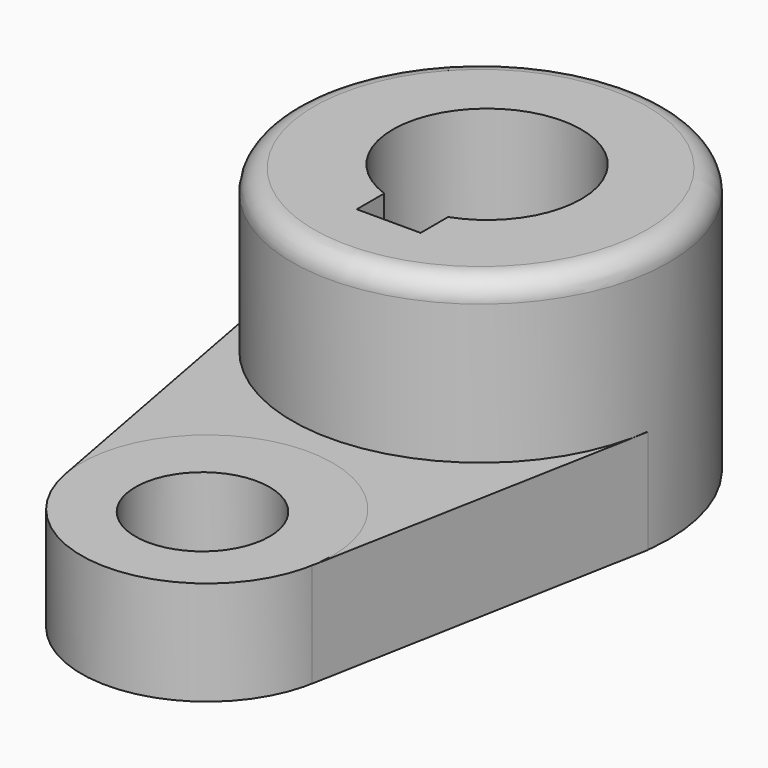
from build123d import *

# Parameters (mm, degrees)
F3_R      = 28.575
F4_DEPTH  = 40.2336
F2_R      = 19.05
F5_DEPTH  = 15.7734
F1_R      = 14.2875
F6_DEPTH  = 63.754
F0_R      = 10.16
F8_DEPTH  = 111.506
F9_R      = 3.302
F11_DEPTH = 15.7734
F12_DEPTH = 175.514


with BuildPart() as f4:
    # F3 (on Top) → F4 (new body)
    with BuildSketch(Plane.XY):
        with Locations((0, 26.3259668327)):
            Circle(F3_R)
    extrude(amount=F4_DEPTH)

    # F1 (on Top) → F6 (cut)
    with BuildSketch(Plane.XY):
        with Locations((0, 27.5547930962)):
            Circle(F1_R)
    extrude(amount=F6_DEPTH, mode=Mode.SUBTRACT)

    # F9
    f9_edges = [f4.edges().sort_by_distance(p)[0] for p in [
        (-28.575, 26.325967, 40.2336),
    ]]
    fillet(f9_edges, radius=F9_R)

    # F7 (on face) → F12 (cut)
    with BuildSketch(Plane(origin=(0, 0, 0), x_dir=(1, 0, 0), z_dir=(0, 0, -1))):
        with BuildLine():
            Line((4.8409085721, -8.9035527781), (-4.8409085721, -8.9035527781))
            Line((-4.8409085721, -8.9035527781), (-4.8409085721, -14.1123877889))
            ThreePointArc((-4.8409085721, -14.1123877889), (0, -13.2672930962), (4.8409085721, -14.1123877889))
            Line((4.8409085721, -14.1123877889), (4.8409085721, -8.9035527781))
        make_face()
    extrude(amount=-F12_DEPTH, mode=Mode.SUBTRACT)


with BuildPart() as f5:
    # F2 (on Top) → F5 (new body)
    with BuildSketch(Plane.XY):
        with Locations((0, -25.5206029374)):
            Circle(F2_R)
    extrude(amount=F5_DEPTH)

    # F0 (on Top) → F8 (cut)
    with BuildSketch(Plane.XY):
        with Locations((0, -26.3711268374)):
            Circle(F0_R)
    extrude(amount=F8_DEPTH, mode=Mode.SUBTRACT)


with BuildPart() as f11:
    # F10 (on face) → F11 (new body)
    with BuildSketch(Plane.XY.offset(15.7734)):
        with BuildLine():
            Line((-28.0381266038, 20.8060319091), (-18.7257599466, -29.0203764192))
            ThreePointArc((-18.7257599466, -29.0203764192), (-1.7573805817, -6.5518361485), (19.05, -25.5206029374))
            ThreePointArc((19.05, -25.5206029374), (18.9687667889, -27.2779835191), (18.7257599466, -29.0203764192))
            Line((18.7257599466, -29.0203764192), (28.3731155461, 22.598411488))
            Line((28.3731155461, 22.598411488), (0, 0))
            Line((0, 0), (-28.0381266038, 20.8060319091))
        make_face()
    extrude(amount=-F11_DEPTH)


solid = Compound([f4.part, f5.part, f11.part])
